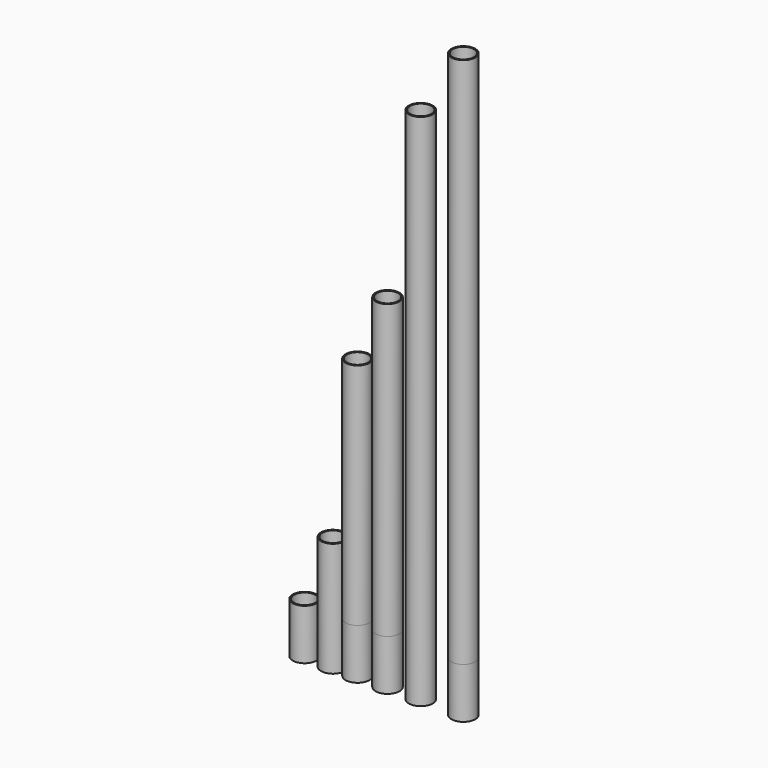
from build123d import *

# Parameters (mm, degrees)
F0_R        = 57.15
F0_R_2      = 50.8
F1_DEPTH    = 241.3
F1_FACE_R   = 57.15
F1_FACE_R_2 = 50.8
F2_DEPTH    = 304.8
F3_DEPTH    = 1092.2
F4_DEPTH    = 1397
F5_DEPTH    = 2235.2
F6_DEPTH    = 2540


with BuildPart() as f1:
    # F0 (on Top) → F1 (new body)
    with BuildSketch(Plane.XY):
        with Locations((-315.242559, 0)):
            Circle(F0_R)
        with Locations((-315.242559, 0)):
            Circle(F0_R_2, mode=Mode.SUBTRACT)
        with Locations((-180.0313, 0)):
            Circle(F0_R)
        with Locations((-180.0313, 0)):
            Circle(F0_R_2, mode=Mode.SUBTRACT)
        with Locations((-62.848195, 0)):
            Circle(F0_R)
        with Locations((-62.848195, 0)):
            Circle(F0_R_2, mode=Mode.SUBTRACT)
        with Locations((80.466405, 0)):
            Circle(F0_R)
        with Locations((80.466405, 0)):
            Circle(F0_R_2, mode=Mode.SUBTRACT)
        with Locations((239.083901, 0)):
            Circle(F0_R)
        with Locations((239.083901, 0)):
            Circle(F0_R_2, mode=Mode.SUBTRACT)
        with Locations((442.346007, 0)):
            Circle(F0_R)
        with Locations((442.346007, 0)):
            Circle(F0_R_2, mode=Mode.SUBTRACT)
    extrude(amount=F1_DEPTH)

    # F1_face (on face) → F2 (join)
    with BuildSketch(Plane(origin=(-180.0313, 0, 241.3), x_dir=(1, 0, 0), z_dir=(0, 0, 1))):
        Circle(F1_FACE_R)
        Circle(F1_FACE_R_2, mode=Mode.SUBTRACT)
    extrude(amount=F2_DEPTH)

    # F1_face (on face) → F3 (join)
    with BuildSketch(Plane(origin=(-180.0313, 0, 241.3), x_dir=(1, 0, 0), z_dir=(0, 0, 1))):
        with Locations((117.183104, 0)):
            Circle(F1_FACE_R)
        with Locations((117.183104, 0)):
            Circle(F1_FACE_R_2, mode=Mode.SUBTRACT)
    extrude(amount=F3_DEPTH)

    # F1_face (on face) → F4 (join)
    with BuildSketch(Plane(origin=(-180.0313, 0, 241.3), x_dir=(1, 0, 0), z_dir=(0, 0, 1))):
        with Locations((260.497704, 0)):
            Circle(F1_FACE_R)
        with Locations((260.497704, 0)):
            Circle(F1_FACE_R_2, mode=Mode.SUBTRACT)
    extrude(amount=F4_DEPTH)

    # F1_face (on face) → F5 (join)
    with BuildSketch(Plane(origin=(-180.0313, 0, 241.3), x_dir=(1, 0, 0), z_dir=(0, 0, 1))):
        with Locations((419.115201, 0)):
            Circle(F1_FACE_R)
        with Locations((419.115201, 0)):
            Circle(F1_FACE_R_2, mode=Mode.SUBTRACT)
    extrude(amount=F5_DEPTH)

    # F1_face (on face) → F6 (join)
    with BuildSketch(Plane(origin=(-180.0313, 0, 241.3), x_dir=(1, 0, 0), z_dir=(0, 0, 1))):
        with Locations((622.377306, 0)):
            Circle(F1_FACE_R)
        with Locations((622.377306, 0)):
            Circle(F1_FACE_R_2, mode=Mode.SUBTRACT)
    extrude(amount=F6_DEPTH)


solid = f1.part
